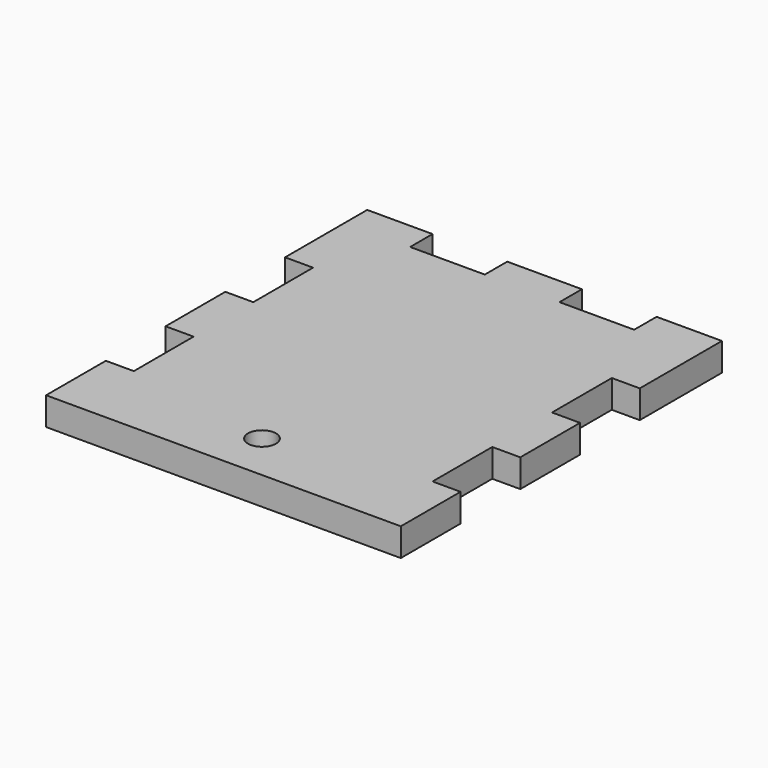
from build123d import *

# Parameters (mm, degrees)
F0_W     = 19.05
F0_H     = 50.8
F0_R     = 9.525853
F0_W_2   = 25.4
F0_H_2   = 19.05
F0_W_3   = 50.8
F1_DEPTH = 19.05
F2_DEPTH = 19.05


with BuildPart() as f1:
    # F0 (on Top) → F1 (new body)
    with BuildSketch(Plane.XY):
        with Locations((-108.23808, -127.183984)):
            Rectangle(F0_W, F0_H)
        Polygon((-73.31308, 101.416016), (-98.71308, 101.416016), (-98.71308, 50.616016), (-98.71308, -0.183984), (-98.71308, -50.983984), (-98.71308, -101.783984), (-98.71308, -152.583984), (104.48692, -152.583984), (104.48692, -101.783984), (104.48692, -50.983984), (104.48692, -0.183984), (104.48692, 50.616016), (104.48692, 101.416016), (79.08692, 101.416016), (28.28692, 101.416016), (-22.51308, 101.416016), align=None)
        with Locations((2.88692, -119.807921)):
            Circle(F0_R, mode=Mode.SUBTRACT)
        with Locations((-108.23808, -25.583984)):
            Rectangle(F0_W, F0_H)
        with Locations((-108.23808, 76.016016)):
            Rectangle(F0_W, F0_H)
        with Locations((-86.01308, 110.941016)):
            Rectangle(F0_W_2, F0_H_2)
        with Locations((2.88692, 110.941016)):
            Rectangle(F0_W_3, F0_H_2)
        with Locations((91.78692, 110.941016)):
            Rectangle(F0_W_2, F0_H_2)
        with Locations((114.01192, 76.016016)):
            Rectangle(F0_W, F0_H)
        with Locations((114.01192, -25.583984)):
            Rectangle(F0_W, F0_H)
        with Locations((114.01192, -127.183984)):
            Rectangle(F0_W, F0_H)
    extrude(amount=F1_DEPTH)

    # F0 (on Top) → F2 (join)
    with BuildSketch(Plane.XY):
        with Locations((-86.01308, 110.941016)):
            Rectangle(F0_W_2, F0_H_2)
        Polygon((-73.31308, 101.416016), (-98.71308, 101.416016), (-98.71308, 50.616016), (-98.71308, -0.183984), (-98.71308, -50.983984), (-98.71308, -101.783984), (-98.71308, -152.583984), (104.48692, -152.583984), (104.48692, -101.783984), (104.48692, -50.983984), (104.48692, -0.183984), (104.48692, 50.616016), (104.48692, 101.416016), (79.08692, 101.416016), (28.28692, 101.416016), (-22.51308, 101.416016), align=None)
        with Locations((2.88692, -119.807921)):
            Circle(F0_R, mode=Mode.SUBTRACT)
        with Locations((-108.23808, 76.016016)):
            Rectangle(F0_W, F0_H)
        with Locations((-108.23808, 110.941016)):
            Rectangle(F0_W, F0_H_2)
        with Locations((2.88692, 110.941016)):
            Rectangle(F0_W_3, F0_H_2)
        with Locations((-108.23808, -25.583984)):
            Rectangle(F0_W, F0_H)
        with Locations((91.78692, 110.941016)):
            Rectangle(F0_W_2, F0_H_2)
        with Locations((-108.23808, -127.183984)):
            Rectangle(F0_W, F0_H)
        with Locations((114.01192, 76.016016)):
            Rectangle(F0_W, F0_H)
        with Locations((114.01192, 110.941016)):
            Rectangle(F0_W, F0_H_2)
        with Locations((114.01192, -127.183984)):
            Rectangle(F0_W, F0_H)
        with Locations((114.01192, -25.583984)):
            Rectangle(F0_W, F0_H)
    extrude(amount=F2_DEPTH)


solid = f1.part
